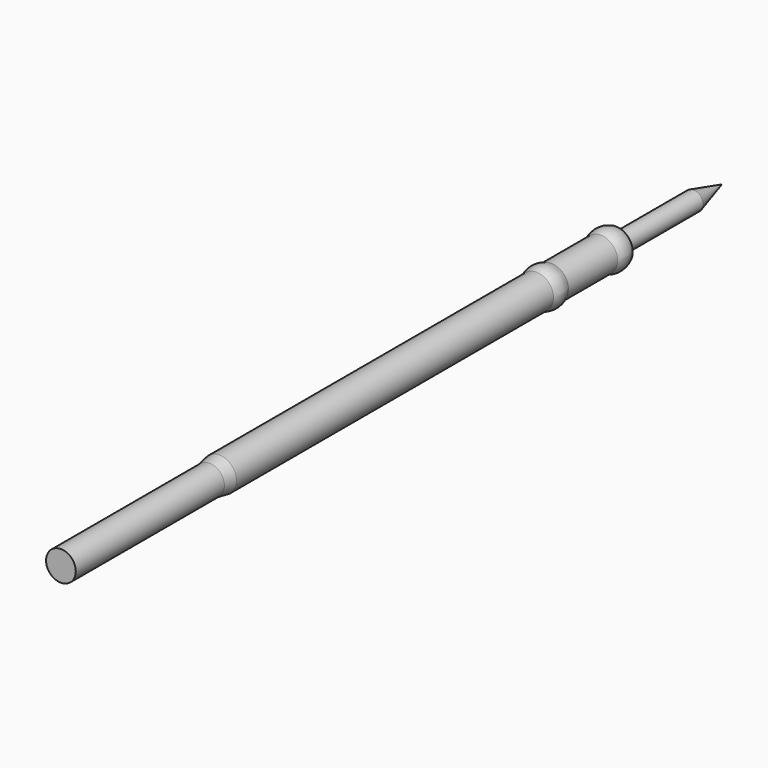
from build123d import *


with BuildPart() as part:
    # Sketch → Revolution (revolve)
    with BuildSketch(Plane.XY):
        Polygon((0, -3.65), (0.24, -3.65), (0.24, 2.454308), (0, 3.35), align=None)
    revolve(axis=Axis((0, 0, 0), (0, 1, 0)))

    # Sketch001 → Revolution001 (revolve)
    with BuildSketch(Plane.XY):
        with BuildLine():
            Line((0, 0), (0.34, 0))
            Line((0.34, 0), (0.34, -12.66))
            ThreePointArc((0, -13), (0.240416, -12.900416), (0.34, -12.66))
            Line((0, -13), (0, 0))
        make_face()
    revolve(axis=Axis((0, 0, 0), (0, 1, 0)))

    # Sketch002 → Revolution002 (revolve)
    with BuildSketch(Plane.XY):
        with BuildLine():
            Line((0, 0), (0, -17.5))
            Line((0, -17.5), (0.375, -17.5))
            Line((0.375, -17.5), (0.375, -12.811921))
            Line((0.375, -12.811921), (0.43, -12.5))
            Line((0.43, -12.5), (0.43, -2.5))
            ThreePointArc((0.43, -2.5), (0.49, -2.262513), (0.43, -2.025026))
            Line((0.43, -2.025026), (0.43, -0.474974))
            ThreePointArc((0.43, -0.474974), (0.49, -0.237487), (0.43, 0))
            Line((0.43, 0), (0, 0))
        make_face()
    revolve(axis=Axis((0, 0, 0), (0, 1, 0)))


solid = part.part
